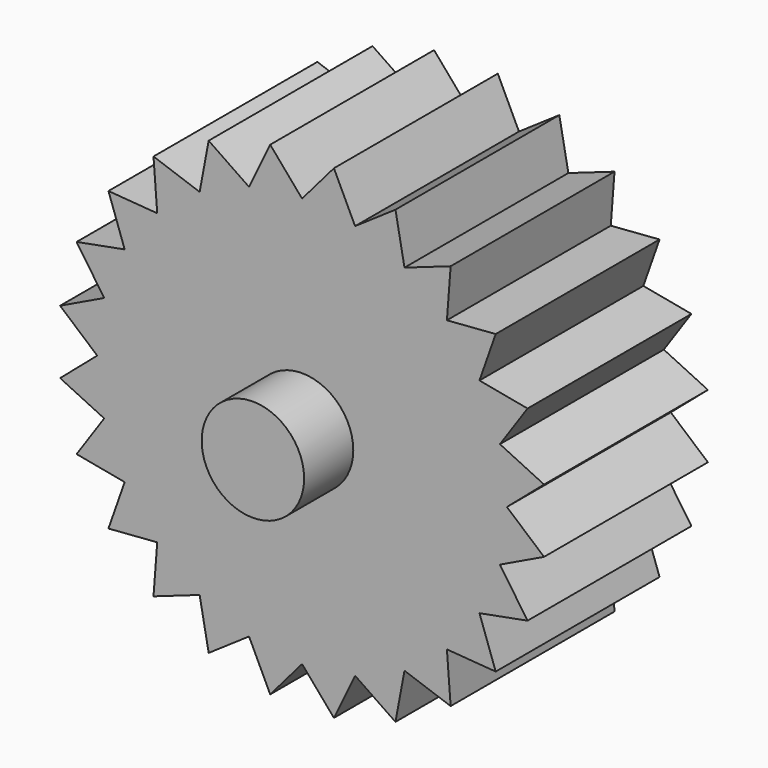
from build123d import *

# Parameters (mm, degrees)
F1_DEPTH = 25.4
F2_R     = 6.35
F3_DEPTH = 7.62
F4_R     = 6.35
F5_DEPTH = 7.62


with BuildPart() as f1:
    # F0 (on Front) → F1 (new body)
    with BuildSketch(Plane.XZ):
        with BuildLine():
            Line((24.9672579939, 3.2870018728), (25.4, 0))
            ThreePointArc((25.4, 0), (25.3456166503, 1.6612394824), (25.1826994789, 3.3153652824))
            Line((25.1826994789, 3.3153652824), (24.9672579939, 3.2870018728))
        make_face()
        with BuildLine():
            Line((30.0037978897, -3.9500749293), (25.4, 0))
            ThreePointArc((25.4, 0), (25.3456166503, -1.6612394824), (25.1826994789, -3.3153652824))
            Line((25.1826994789, -3.3153652824), (30.0037978897, -3.9500749293))
        make_face()
        Polygon((24.9672579939, -3.2870018728), (25.4, 0), (0, 0), (24.5345159877, -6.5740037456), align=None)
        with BuildLine():
            ThreePointArc((25.1826994789, -3.3153652824), (25.3456166503, -1.6612394824), (25.4, 0))
            Line((25.4, 0), (24.9672579939, -3.2870018728))
            Line((24.9672579939, -3.2870018728), (25.1826994789, -3.3153652824))
        make_face()
        Polygon((0, 0), (25.4, 0), (24.9672579939, 3.2870018728), (24.5345159877, 6.5740037456), align=None)
        with BuildLine():
            ThreePointArc((25.1826994789, 3.3153652824), (25.3456166503, 1.6612394824), (25.4, 0))
            Line((25.4, 0), (30.0037978897, 3.9500749293))
            Line((30.0037978897, 3.9500749293), (25.1826994789, 3.3153652824))
        make_face()
        with BuildLine():
            Line((24.9672579939, 3.2870018728), (25.1826994789, 3.3153652824))
            ThreePointArc((25.1826994789, 3.3153652824), (24.9119461222, 4.9552941792), (24.5345159877, 6.5740037456))
            Line((24.5345159877, 6.5740037456), (24.9672579939, 3.2870018728))
        make_face()
        with BuildLine():
            ThreePointArc((24.5345159877, 6.5740037456), (24.9119461222, 4.9552941792), (25.1826994789, 3.3153652824))
            Line((25.1826994789, 3.3153652824), (30.0037978897, 3.9500749293))
            Line((30.0037978897, 3.9500749293), (24.5345159877, 6.5740037456))
        make_face()
        with BuildLine():
            Line((30.0037978897, -3.9500749293), (25.1826994789, -3.3153652824))
            ThreePointArc((25.1826994789, -3.3153652824), (24.9119461222, -4.9552941792), (24.5345159877, -6.5740037456))
            Line((24.5345159877, -6.5740037456), (30.0037978897, -3.9500749293))
        make_face()
        with BuildLine():
            ThreePointArc((24.5345159877, -6.5740037456), (24.9119461222, -4.9552941792), (25.1826994789, -3.3153652824))
            Line((25.1826994789, -3.3153652824), (24.9672579939, -3.2870018728))
            Line((24.9672579939, -3.2870018728), (24.5345159877, -6.5740037456))
        make_face()
        Polygon((-6.5740037456, 24.5345159877), (0, 0), (0, 25.4), (-3.2870018728, 24.9672579939), align=None)
        Polygon((-24.5345159877, -6.5740037456), (0, 0), (-25.4, 0), (-24.9672579939, -3.2870018728), align=None)
        Polygon((6.5740037456, -24.5345159877), (0, 0), (0, -25.4), (3.2870018728, -24.9672579939), align=None)
        Polygon((21.9970452561, 12.7), (0, 0), (24.5345159877, 6.5740037456), (23.2657806219, 9.6370018728), align=None)
        Polygon((17.9605122421, 17.9605122421), (0, 0), (21.9970452561, 12.7), (19.9787787491, 15.3302561211), align=None)
        Polygon((12.7, 21.9970452561), (0, 0), (17.9605122421, 17.9605122421), (15.3302561211, 19.9787787491), align=None)
        Polygon((6.5740037456, 24.5345159877), (0, 0), (12.7, 21.9970452561), (9.6370018728, 23.2657806219), align=None)
        Polygon((0, 25.4), (0, 0), (6.5740037456, 24.5345159877), (3.2870018728, 24.9672579939), align=None)
        Polygon((0, -25.4), (0, 0), (-6.5740037456, -24.5345159877), (-3.2870018728, -24.9672579939), align=None)
        Polygon((24.5345159877, -6.5740037456), (0, 0), (21.9970452561, -12.7), (23.2657806219, -9.6370018728), align=None)
        Polygon((21.9970452561, -12.7), (0, 0), (17.9605122421, -17.9605122421), (19.9787787491, -15.3302561211), align=None)
        Polygon((17.9605122421, -17.9605122421), (0, 0), (12.7, -21.9970452561), (15.3302561211, -19.9787787491), align=None)
        Polygon((12.7, -21.9970452561), (0, 0), (6.5740037456, -24.5345159877), (9.6370018728, -23.2657806219), align=None)
        Polygon((-6.5740037456, -24.5345159877), (0, 0), (-12.7, -21.9970452561), (-9.6370018728, -23.2657806219), align=None)
        Polygon((-12.7, -21.9970452561), (0, 0), (-17.9605122421, -17.9605122421), (-15.3302561211, -19.9787787491), align=None)
        Polygon((-17.9605122421, -17.9605122421), (0, 0), (-21.9970452561, -12.7), (-19.9787787491, -15.3302561211), align=None)
        Polygon((-21.9970452561, -12.7), (0, 0), (-24.5345159877, -6.5740037456), (-23.2657806219, -9.6370018728), align=None)
        Polygon((-25.4, 0), (0, 0), (-24.5345159877, 6.5740037456), (-24.9672579939, 3.2870018728), align=None)
        Polygon((-24.5345159877, 6.5740037456), (0, 0), (-21.9970452561, 12.7), (-23.2657806219, 9.6370018728), align=None)
        Polygon((-21.9970452561, 12.7), (0, 0), (-17.9605122421, 17.9605122421), (-19.9787787491, 15.3302561211), align=None)
        Polygon((-17.9605122421, 17.9605122421), (0, 0), (-12.7, 21.9970452561), (-15.3302561211, 19.9787787491), align=None)
        Polygon((-12.7, 21.9970452561), (0, 0), (-6.5740037456, 24.5345159877), (-9.6370018728, 23.2657806219), align=None)
        with BuildLine():
            Line((23.2657806219, 9.6370018728), (24.5345159877, 6.5740037456))
            ThreePointArc((24.5345159877, 6.5740037456), (24.0520252892, 8.1645624187), (23.4665401258, 9.7201591821))
            Line((23.4665401258, 9.7201591821), (23.2657806219, 9.6370018728))
        make_face()
        with BuildLine():
            ThreePointArc((23.4665401258, 9.7201591821), (24.0520252892, 8.1645624187), (24.5345159877, 6.5740037456))
            Line((24.5345159877, 6.5740037456), (27.9590886471, 11.5810337092))
            Line((27.9590886471, 11.5810337092), (23.4665401258, 9.7201591821))
        make_face()
        with BuildLine():
            Line((27.9590886471, -11.5810337092), (24.5345159877, -6.5740037456))
            ThreePointArc((24.5345159877, -6.5740037456), (24.0520252892, -8.1645624187), (23.4665401258, -9.7201591821))
            Line((23.4665401258, -9.7201591821), (27.9590886471, -11.5810337092))
        make_face()
        with BuildLine():
            ThreePointArc((23.4665401258, -9.7201591821), (24.0520252892, -8.1645624187), (24.5345159877, -6.5740037456))
            Line((24.5345159877, -6.5740037456), (23.2657806219, -9.6370018728))
            Line((23.2657806219, -9.6370018728), (23.4665401258, -9.7201591821))
        make_face()
        with BuildLine():
            Line((3.9500749293, 30.0037978897), (0, 25.4))
            ThreePointArc((0, 25.4), (1.6612394824, 25.3456166503), (3.3153652824, 25.1826994789))
            Line((3.3153652824, 25.1826994789), (3.9500749293, 30.0037978897))
        make_face()
        with BuildLine():
            Line((-3.2870018728, 24.9672579939), (0, 25.4))
            ThreePointArc((0, 25.4), (-1.6612394824, 25.3456166503), (-3.3153652824, 25.1826994789))
            Line((-3.3153652824, 25.1826994789), (-3.2870018728, 24.9672579939))
        make_face()
        with BuildLine():
            ThreePointArc((3.3153652824, 25.1826994789), (1.6612394824, 25.3456166503), (0, 25.4))
            Line((0, 25.4), (3.2870018728, 24.9672579939))
            Line((3.2870018728, 24.9672579939), (3.3153652824, 25.1826994789))
        make_face()
        with BuildLine():
            ThreePointArc((-3.3153652824, 25.1826994789), (-1.6612394824, 25.3456166503), (0, 25.4))
            Line((0, 25.4), (-3.9500749293, 30.0037978897))
            Line((-3.9500749293, 30.0037978897), (-3.3153652824, 25.1826994789))
        make_face()
        with BuildLine():
            Line((-30.0037978897, 3.9500749293), (-25.4, 0))
            ThreePointArc((-25.4, 0), (-25.3456166503, 1.6612394824), (-25.1826994789, 3.3153652824))
            Line((-25.1826994789, 3.3153652824), (-30.0037978897, 3.9500749293))
        make_face()
        with BuildLine():
            Line((-24.9672579939, -3.2870018728), (-25.4, 0))
            ThreePointArc((-25.4, 0), (-25.3456166503, -1.6612394824), (-25.1826994789, -3.3153652824))
            Line((-25.1826994789, -3.3153652824), (-24.9672579939, -3.2870018728))
        make_face()
        with BuildLine():
            ThreePointArc((-25.1826994789, 3.3153652824), (-25.3456166503, 1.6612394824), (-25.4, 0))
            Line((-25.4, 0), (-24.9672579939, 3.2870018728))
            Line((-24.9672579939, 3.2870018728), (-25.1826994789, 3.3153652824))
        make_face()
        with BuildLine():
            ThreePointArc((-25.1826994789, -3.3153652824), (-25.3456166503, -1.6612394824), (-25.4, 0))
            Line((-25.4, 0), (-30.0037978897, -3.9500749293))
            Line((-30.0037978897, -3.9500749293), (-25.1826994789, -3.3153652824))
        make_face()
        with BuildLine():
            Line((-3.9500749293, -30.0037978896), (0, -25.4))
            ThreePointArc((0, -25.4), (-1.6612394824, -25.3456166503), (-3.3153652824, -25.1826994789))
            Line((-3.3153652824, -25.1826994789), (-3.9500749293, -30.0037978896))
        make_face()
        with BuildLine():
            Line((3.2870018728, -24.9672579939), (0, -25.4))
            ThreePointArc((0, -25.4), (1.6612394824, -25.3456166503), (3.3153652824, -25.1826994789))
            Line((3.3153652824, -25.1826994789), (3.2870018728, -24.9672579939))
        make_face()
        with BuildLine():
            ThreePointArc((-3.3153652824, -25.1826994789), (-1.6612394824, -25.3456166503), (0, -25.4))
            Line((0, -25.4), (-3.2870018728, -24.9672579939))
            Line((-3.2870018728, -24.9672579939), (-3.3153652824, -25.1826994789))
        make_face()
        with BuildLine():
            ThreePointArc((3.3153652824, -25.1826994789), (1.6612394824, -25.3456166503), (0, -25.4))
            Line((0, -25.4), (3.9500749293, -30.0037978897))
            Line((3.9500749293, -30.0037978897), (3.3153652824, -25.1826994789))
        make_face()
        with BuildLine():
            Line((27.9590886471, 11.5810337092), (21.9970452561, 12.7))
            ThreePointArc((21.9970452561, 12.7), (22.7805676349, 11.2341327316), (23.4665401258, 9.7201591821))
            Line((23.4665401258, 9.7201591821), (27.9590886471, 11.5810337092))
        make_face()
        with BuildLine():
            Line((19.9787787491, 15.3302561211), (21.9970452561, 12.7))
            ThreePointArc((21.9970452561, 12.7), (21.1193281525, 14.1114839187), (20.1511748434, 15.4625402968))
            Line((20.1511748434, 15.4625402968), (19.9787787491, 15.3302561211))
        make_face()
        with BuildLine():
            ThreePointArc((23.4665401258, 9.7201591821), (22.7805676349, 11.2341327316), (21.9970452561, 12.7))
            Line((21.9970452561, 12.7), (23.2657806219, 9.6370018728))
            Line((23.2657806219, 9.6370018728), (23.4665401258, 9.7201591821))
        make_face()
        with BuildLine():
            ThreePointArc((20.1511748434, 15.4625402968), (21.1193281525, 14.1114839187), (21.9970452561, 12.7))
            Line((21.9970452561, 12.7), (24.0090137178, 18.4227641804))
            Line((24.0090137178, 18.4227641804), (20.1511748434, 15.4625402968))
        make_face()
        with BuildLine():
            Line((24.0090137178, 18.4227641804), (17.9605122421, 17.9605122421))
            ThreePointArc((17.9605122421, 17.9605122421), (19.09673111, 16.7473837035), (20.1511748434, 15.4625402968))
            Line((20.1511748434, 15.4625402968), (24.0090137178, 18.4227641804))
        make_face()
        with BuildLine():
            Line((15.3302561211, 19.9787787491), (17.9605122421, 17.9605122421))
            ThreePointArc((17.9605122421, 17.9605122421), (16.7473837035, 19.09673111), (15.4625402968, 20.1511748434))
            Line((15.4625402968, 20.1511748434), (15.3302561211, 19.9787787491))
        make_face()
        with BuildLine():
            ThreePointArc((20.1511748434, 15.4625402968), (19.09673111, 16.7473837035), (17.9605122421, 17.9605122421))
            Line((17.9605122421, 17.9605122421), (19.9787787491, 15.3302561211))
            Line((19.9787787491, 15.3302561211), (20.1511748434, 15.4625402968))
        make_face()
        with BuildLine():
            ThreePointArc((15.4625402968, 20.1511748434), (16.7473837035, 19.09673111), (17.9605122421, 17.9605122421))
            Line((17.9605122421, 17.9605122421), (18.4227641804, 24.0090137178))
            Line((18.4227641804, 24.0090137178), (15.4625402968, 20.1511748434))
        make_face()
        with BuildLine():
            Line((18.4227641804, 24.0090137178), (12.7, 21.9970452561))
            ThreePointArc((12.7, 21.9970452561), (14.1114839187, 21.1193281525), (15.4625402968, 20.1511748434))
            Line((15.4625402968, 20.1511748434), (18.4227641804, 24.0090137178))
        make_face()
        with BuildLine():
            Line((9.6370018728, 23.2657806219), (12.7, 21.9970452561))
            ThreePointArc((12.7, 21.9970452561), (11.2341327316, 22.7805676349), (9.7201591821, 23.4665401258))
            Line((9.7201591821, 23.4665401258), (9.6370018728, 23.2657806219))
        make_face()
        with BuildLine():
            ThreePointArc((15.4625402968, 20.1511748434), (14.1114839187, 21.1193281525), (12.7, 21.9970452561))
            Line((12.7, 21.9970452561), (15.3302561211, 19.9787787491))
            Line((15.3302561211, 19.9787787491), (15.4625402968, 20.1511748434))
        make_face()
        with BuildLine():
            ThreePointArc((9.7201591821, 23.4665401258), (11.2341327316, 22.7805676349), (12.7, 21.9970452561))
            Line((12.7, 21.9970452561), (11.5810337092, 27.9590886471))
            Line((11.5810337092, 27.9590886471), (9.7201591821, 23.4665401258))
        make_face()
        with BuildLine():
            Line((11.5810337092, 27.9590886471), (6.5740037456, 24.5345159877))
            ThreePointArc((6.5740037456, 24.5345159877), (8.1645624187, 24.0520252892), (9.7201591821, 23.4665401258))
            Line((9.7201591821, 23.4665401258), (11.5810337092, 27.9590886471))
        make_face()
        with BuildLine():
            Line((3.2870018728, 24.9672579939), (6.5740037456, 24.5345159877))
            ThreePointArc((6.5740037456, 24.5345159877), (4.9552941792, 24.9119461222), (3.3153652824, 25.1826994789))
            Line((3.3153652824, 25.1826994789), (3.2870018728, 24.9672579939))
        make_face()
        with BuildLine():
            ThreePointArc((9.7201591821, 23.4665401258), (8.1645624187, 24.0520252892), (6.5740037456, 24.5345159877))
            Line((6.5740037456, 24.5345159877), (9.6370018728, 23.2657806219))
            Line((9.6370018728, 23.2657806219), (9.7201591821, 23.4665401258))
        make_face()
        with BuildLine():
            ThreePointArc((3.3153652824, 25.1826994789), (4.9552941792, 24.9119461222), (6.5740037456, 24.5345159877))
            Line((6.5740037456, 24.5345159877), (3.9500749293, 30.0037978897))
            Line((3.9500749293, 30.0037978897), (3.3153652824, 25.1826994789))
        make_face()
        with BuildLine():
            Line((-11.5810337092, -27.9590886471), (-6.5740037456, -24.5345159877))
            ThreePointArc((-6.5740037456, -24.5345159877), (-8.1645624187, -24.0520252892), (-9.7201591821, -23.4665401258))
            Line((-9.7201591821, -23.4665401258), (-11.5810337092, -27.9590886471))
        make_face()
        with BuildLine():
            Line((-3.2870018728, -24.9672579939), (-6.5740037456, -24.5345159877))
            ThreePointArc((-6.5740037456, -24.5345159877), (-4.9552941792, -24.9119461222), (-3.3153652824, -25.1826994789))
            Line((-3.3153652824, -25.1826994789), (-3.2870018728, -24.9672579939))
        make_face()
        with BuildLine():
            ThreePointArc((-9.7201591821, -23.4665401258), (-8.1645624187, -24.0520252892), (-6.5740037456, -24.5345159877))
            Line((-6.5740037456, -24.5345159877), (-9.6370018728, -23.2657806219))
            Line((-9.6370018728, -23.2657806219), (-9.7201591821, -23.4665401258))
        make_face()
        with BuildLine():
            ThreePointArc((-3.3153652824, -25.1826994789), (-4.9552941792, -24.9119461222), (-6.5740037456, -24.5345159877))
            Line((-6.5740037456, -24.5345159877), (-3.9500749293, -30.0037978897))
            Line((-3.9500749293, -30.0037978896), (-3.3153652824, -25.1826994789))
        make_face()
        with BuildLine():
            Line((24.0090137178, -18.4227641804), (21.9970452561, -12.7))
            ThreePointArc((21.9970452561, -12.7), (21.1193281525, -14.1114839187), (20.1511748434, -15.4625402968))
            Line((20.1511748434, -15.4625402968), (24.0090137178, -18.4227641804))
        make_face()
        with BuildLine():
            Line((23.2657806219, -9.6370018728), (21.9970452561, -12.7))
            ThreePointArc((21.9970452561, -12.7), (22.7805676349, -11.2341327316), (23.4665401258, -9.7201591821))
            Line((23.4665401258, -9.7201591821), (23.2657806219, -9.6370018728))
        make_face()
        with BuildLine():
            ThreePointArc((20.1511748434, -15.4625402968), (21.1193281525, -14.1114839187), (21.9970452561, -12.7))
            Line((21.9970452561, -12.7), (19.9787787491, -15.3302561211))
            Line((19.9787787491, -15.3302561211), (20.1511748434, -15.4625402968))
        make_face()
        with BuildLine():
            ThreePointArc((23.4665401258, -9.7201591821), (22.7805676349, -11.2341327316), (21.9970452561, -12.7))
            Line((21.9970452561, -12.7), (27.9590886471, -11.5810337092))
            Line((27.9590886471, -11.5810337092), (23.4665401258, -9.7201591821))
        make_face()
        with BuildLine():
            Line((18.4227641804, -24.0090137178), (17.9605122421, -17.9605122421))
            ThreePointArc((17.9605122421, -17.9605122421), (16.7473837035, -19.09673111), (15.4625402968, -20.1511748434))
            Line((15.4625402968, -20.1511748434), (18.4227641804, -24.0090137178))
        make_face()
        with BuildLine():
            Line((19.9787787491, -15.3302561211), (17.9605122421, -17.9605122421))
            ThreePointArc((17.9605122421, -17.9605122421), (19.09673111, -16.7473837035), (20.1511748434, -15.4625402968))
            Line((20.1511748434, -15.4625402968), (19.9787787491, -15.3302561211))
        make_face()
        with BuildLine():
            ThreePointArc((15.4625402968, -20.1511748434), (16.7473837035, -19.09673111), (17.9605122421, -17.9605122421))
            Line((17.9605122421, -17.9605122421), (15.3302561211, -19.9787787491))
            Line((15.3302561211, -19.9787787491), (15.4625402968, -20.1511748434))
        make_face()
        with BuildLine():
            ThreePointArc((20.1511748434, -15.4625402968), (19.09673111, -16.7473837035), (17.9605122421, -17.9605122421))
            Line((17.9605122421, -17.9605122421), (24.0090137178, -18.4227641804))
            Line((24.0090137178, -18.4227641804), (20.1511748434, -15.4625402968))
        make_face()
        with BuildLine():
            Line((11.5810337092, -27.9590886471), (12.7, -21.9970452561))
            ThreePointArc((12.7, -21.9970452561), (11.2341327316, -22.7805676349), (9.7201591821, -23.4665401258))
            Line((9.7201591821, -23.4665401258), (11.5810337092, -27.9590886471))
        make_face()
        with BuildLine():
            Line((15.3302561211, -19.9787787491), (12.7, -21.9970452561))
            ThreePointArc((12.7, -21.9970452561), (14.1114839187, -21.1193281525), (15.4625402968, -20.1511748434))
            Line((15.4625402968, -20.1511748434), (15.3302561211, -19.9787787491))
        make_face()
        with BuildLine():
            ThreePointArc((9.7201591821, -23.4665401258), (11.2341327316, -22.7805676349), (12.7, -21.9970452561))
            Line((12.7, -21.9970452561), (9.6370018728, -23.2657806219))
            Line((9.6370018728, -23.2657806219), (9.7201591821, -23.4665401258))
        make_face()
        with BuildLine():
            ThreePointArc((15.4625402968, -20.1511748434), (14.1114839187, -21.1193281525), (12.7, -21.9970452561))
            Line((12.7, -21.9970452561), (18.4227641804, -24.0090137178))
            Line((18.4227641804, -24.0090137178), (15.4625402968, -20.1511748434))
        make_face()
        with BuildLine():
            Line((3.9500749293, -30.0037978897), (6.5740037456, -24.5345159877))
            ThreePointArc((6.5740037456, -24.5345159877), (4.9552941792, -24.9119461222), (3.3153652824, -25.1826994789))
            Line((3.3153652824, -25.1826994789), (3.9500749293, -30.0037978897))
        make_face()
        with BuildLine():
            Line((9.6370018728, -23.2657806219), (6.5740037456, -24.5345159877))
            ThreePointArc((6.5740037456, -24.5345159877), (8.1645624187, -24.0520252892), (9.7201591821, -23.4665401258))
            Line((9.7201591821, -23.4665401258), (9.6370018728, -23.2657806219))
        make_face()
        with BuildLine():
            ThreePointArc((3.3153652824, -25.1826994789), (4.9552941792, -24.9119461222), (6.5740037456, -24.5345159877))
            Line((6.5740037456, -24.5345159877), (3.2870018728, -24.9672579939))
            Line((3.2870018728, -24.9672579939), (3.3153652824, -25.1826994789))
        make_face()
        with BuildLine():
            ThreePointArc((9.7201591821, -23.4665401258), (8.1645624187, -24.0520252892), (6.5740037456, -24.5345159877))
            Line((6.5740037456, -24.5345159877), (11.5810337092, -27.9590886471))
            Line((11.5810337092, -27.9590886471), (9.7201591821, -23.4665401258))
        make_face()
        with BuildLine():
            Line((-18.4227641804, -24.0090137178), (-12.7, -21.9970452561))
            ThreePointArc((-12.7, -21.9970452561), (-14.1114839187, -21.1193281525), (-15.4625402968, -20.1511748434))
            Line((-15.4625402968, -20.1511748434), (-18.4227641804, -24.0090137178))
        make_face()
        with BuildLine():
            Line((-9.6370018728, -23.2657806219), (-12.7, -21.9970452561))
            ThreePointArc((-12.7, -21.9970452561), (-11.2341327316, -22.7805676349), (-9.7201591821, -23.4665401258))
            Line((-9.7201591821, -23.4665401258), (-9.6370018728, -23.2657806219))
        make_face()
        with BuildLine():
            ThreePointArc((-15.4625402968, -20.1511748434), (-14.1114839187, -21.1193281525), (-12.7, -21.9970452561))
            Line((-12.7, -21.9970452561), (-15.3302561211, -19.9787787491))
            Line((-15.3302561211, -19.9787787491), (-15.4625402968, -20.1511748434))
        make_face()
        with BuildLine():
            ThreePointArc((-9.7201591821, -23.4665401258), (-11.2341327316, -22.7805676349), (-12.7, -21.9970452561))
            Line((-12.7, -21.9970452561), (-11.5810337092, -27.9590886471))
            Line((-11.5810337092, -27.9590886471), (-9.7201591821, -23.4665401258))
        make_face()
        with BuildLine():
            Line((-24.0090137178, -18.4227641804), (-17.9605122421, -17.9605122421))
            ThreePointArc((-17.9605122421, -17.9605122421), (-19.09673111, -16.7473837035), (-20.1511748434, -15.4625402968))
            Line((-20.1511748434, -15.4625402968), (-24.0090137178, -18.4227641804))
        make_face()
        with BuildLine():
            Line((-15.3302561211, -19.9787787491), (-17.9605122421, -17.9605122421))
            ThreePointArc((-17.9605122421, -17.9605122421), (-16.7473837035, -19.09673111), (-15.4625402968, -20.1511748434))
            Line((-15.4625402968, -20.1511748434), (-15.3302561211, -19.9787787491))
        make_face()
        with BuildLine():
            ThreePointArc((-20.1511748434, -15.4625402968), (-19.09673111, -16.7473837035), (-17.9605122421, -17.9605122421))
            Line((-17.9605122421, -17.9605122421), (-19.9787787491, -15.3302561211))
            Line((-19.9787787491, -15.3302561211), (-20.1511748434, -15.4625402968))
        make_face()
        with BuildLine():
            ThreePointArc((-15.4625402968, -20.1511748434), (-16.7473837035, -19.09673111), (-17.9605122421, -17.9605122421))
            Line((-17.9605122421, -17.9605122421), (-18.4227641804, -24.0090137178))
            Line((-18.4227641804, -24.0090137178), (-15.4625402968, -20.1511748434))
        make_face()
        with BuildLine():
            Line((-27.9590886471, -11.5810337092), (-21.9970452561, -12.7))
            ThreePointArc((-21.9970452561, -12.7), (-22.7805676349, -11.2341327316), (-23.4665401258, -9.7201591821))
            Line((-23.4665401258, -9.7201591821), (-27.9590886471, -11.5810337092))
        make_face()
        with BuildLine():
            Line((-19.9787787491, -15.3302561211), (-21.9970452561, -12.7))
            ThreePointArc((-21.9970452561, -12.7), (-21.1193281525, -14.1114839187), (-20.1511748434, -15.4625402968))
            Line((-20.1511748434, -15.4625402968), (-19.9787787491, -15.3302561211))
        make_face()
        with BuildLine():
            ThreePointArc((-23.4665401258, -9.7201591821), (-22.7805676349, -11.2341327316), (-21.9970452561, -12.7))
            Line((-21.9970452561, -12.7), (-23.2657806219, -9.6370018728))
            Line((-23.2657806219, -9.6370018728), (-23.4665401258, -9.7201591821))
        make_face()
        with BuildLine():
            ThreePointArc((-20.1511748434, -15.4625402968), (-21.1193281525, -14.1114839187), (-21.9970452561, -12.7))
            Line((-21.9970452561, -12.7), (-24.0090137178, -18.4227641804))
            Line((-24.0090137178, -18.4227641804), (-20.1511748434, -15.4625402968))
        make_face()
        with BuildLine():
            Line((-30.0037978897, -3.9500749293), (-24.5345159877, -6.5740037456))
            ThreePointArc((-24.5345159877, -6.5740037456), (-24.9119461222, -4.9552941792), (-25.1826994789, -3.3153652824))
            Line((-25.1826994789, -3.3153652824), (-30.0037978897, -3.9500749293))
        make_face()
        with BuildLine():
            Line((-23.2657806219, -9.6370018728), (-24.5345159877, -6.5740037456))
            ThreePointArc((-24.5345159877, -6.5740037456), (-24.0520252892, -8.1645624187), (-23.4665401258, -9.7201591821))
            Line((-23.4665401258, -9.7201591821), (-23.2657806219, -9.6370018728))
        make_face()
        with BuildLine():
            ThreePointArc((-25.1826994789, -3.3153652824), (-24.9119461222, -4.9552941792), (-24.5345159877, -6.5740037456))
            Line((-24.5345159877, -6.5740037456), (-24.9672579939, -3.2870018728))
            Line((-24.9672579939, -3.2870018728), (-25.1826994789, -3.3153652824))
        make_face()
        with BuildLine():
            ThreePointArc((-23.4665401258, -9.7201591821), (-24.0520252892, -8.1645624187), (-24.5345159877, -6.5740037456))
            Line((-24.5345159877, -6.5740037456), (-27.9590886471, -11.5810337092))
            Line((-27.9590886471, -11.5810337092), (-23.4665401258, -9.7201591821))
        make_face()
        with BuildLine():
            Line((-27.9590886471, 11.5810337092), (-24.5345159877, 6.5740037456))
            ThreePointArc((-24.5345159877, 6.5740037456), (-24.0520252892, 8.1645624187), (-23.4665401258, 9.7201591821))
            Line((-23.4665401258, 9.7201591821), (-27.9590886471, 11.5810337092))
        make_face()
        with BuildLine():
            Line((-24.9672579939, 3.2870018728), (-24.5345159877, 6.5740037456))
            ThreePointArc((-24.5345159877, 6.5740037456), (-24.9119461222, 4.9552941792), (-25.1826994789, 3.3153652824))
            Line((-25.1826994789, 3.3153652824), (-24.9672579939, 3.2870018728))
        make_face()
        with BuildLine():
            ThreePointArc((-23.4665401258, 9.7201591821), (-24.0520252892, 8.1645624187), (-24.5345159877, 6.5740037456))
            Line((-24.5345159877, 6.5740037456), (-23.2657806219, 9.6370018728))
            Line((-23.2657806219, 9.6370018728), (-23.4665401258, 9.7201591821))
        make_face()
        with BuildLine():
            ThreePointArc((-25.1826994789, 3.3153652824), (-24.9119461222, 4.9552941792), (-24.5345159877, 6.5740037456))
            Line((-24.5345159877, 6.5740037456), (-30.0037978897, 3.9500749293))
            Line((-30.0037978897, 3.9500749293), (-25.1826994789, 3.3153652824))
        make_face()
        with BuildLine():
            Line((-24.0090137178, 18.4227641804), (-21.9970452561, 12.7))
            ThreePointArc((-21.9970452561, 12.7), (-21.1193281525, 14.1114839187), (-20.1511748434, 15.4625402968))
            Line((-20.1511748434, 15.4625402968), (-24.0090137178, 18.4227641804))
        make_face()
        with BuildLine():
            Line((-23.2657806219, 9.6370018728), (-21.9970452561, 12.7))
            ThreePointArc((-21.9970452561, 12.7), (-22.7805676349, 11.2341327316), (-23.4665401258, 9.7201591821))
            Line((-23.4665401258, 9.7201591821), (-23.2657806219, 9.6370018728))
        make_face()
        with BuildLine():
            ThreePointArc((-20.1511748434, 15.4625402968), (-21.1193281525, 14.1114839187), (-21.9970452561, 12.7))
            Line((-21.9970452561, 12.7), (-19.9787787491, 15.3302561211))
            Line((-19.9787787491, 15.3302561211), (-20.1511748434, 15.4625402968))
        make_face()
        with BuildLine():
            ThreePointArc((-23.4665401258, 9.7201591821), (-22.7805676349, 11.2341327316), (-21.9970452561, 12.7))
            Line((-21.9970452561, 12.7), (-27.9590886471, 11.5810337092))
            Line((-27.9590886471, 11.5810337092), (-23.4665401258, 9.7201591821))
        make_face()
        with BuildLine():
            Line((-18.4227641804, 24.0090137178), (-17.9605122421, 17.9605122421))
            ThreePointArc((-17.9605122421, 17.9605122421), (-16.7473837035, 19.09673111), (-15.4625402968, 20.1511748434))
            Line((-15.4625402968, 20.1511748434), (-18.4227641804, 24.0090137178))
        make_face()
        with BuildLine():
            Line((-19.9787787491, 15.3302561211), (-17.9605122421, 17.9605122421))
            ThreePointArc((-17.9605122421, 17.9605122421), (-19.09673111, 16.7473837035), (-20.1511748434, 15.4625402968))
            Line((-20.1511748434, 15.4625402968), (-19.9787787491, 15.3302561211))
        make_face()
        with BuildLine():
            ThreePointArc((-15.4625402968, 20.1511748434), (-16.7473837035, 19.09673111), (-17.9605122421, 17.9605122421))
            Line((-17.9605122421, 17.9605122421), (-15.3302561211, 19.9787787491))
            Line((-15.3302561211, 19.9787787491), (-15.4625402968, 20.1511748434))
        make_face()
        with BuildLine():
            ThreePointArc((-20.1511748434, 15.4625402968), (-19.09673111, 16.7473837035), (-17.9605122421, 17.9605122421))
            Line((-17.9605122421, 17.9605122421), (-24.0090137178, 18.4227641804))
            Line((-24.0090137178, 18.4227641804), (-20.1511748434, 15.4625402968))
        make_face()
        with BuildLine():
            Line((-11.5810337092, 27.9590886471), (-12.7, 21.9970452561))
            ThreePointArc((-12.7, 21.9970452561), (-11.2341327316, 22.7805676349), (-9.7201591821, 23.4665401258))
            Line((-9.7201591821, 23.4665401258), (-11.5810337092, 27.9590886471))
        make_face()
        with BuildLine():
            Line((-15.3302561211, 19.9787787491), (-12.7, 21.9970452561))
            ThreePointArc((-12.7, 21.9970452561), (-14.1114839187, 21.1193281525), (-15.4625402968, 20.1511748434))
            Line((-15.4625402968, 20.1511748434), (-15.3302561211, 19.9787787491))
        make_face()
        with BuildLine():
            ThreePointArc((-9.7201591821, 23.4665401258), (-11.2341327316, 22.7805676349), (-12.7, 21.9970452561))
            Line((-12.7, 21.9970452561), (-9.6370018728, 23.2657806219))
            Line((-9.6370018728, 23.2657806219), (-9.7201591821, 23.4665401258))
        make_face()
        with BuildLine():
            ThreePointArc((-15.4625402968, 20.1511748434), (-14.1114839187, 21.1193281525), (-12.7, 21.9970452561))
            Line((-12.7, 21.9970452561), (-18.4227641804, 24.0090137178))
            Line((-18.4227641804, 24.0090137178), (-15.4625402968, 20.1511748434))
        make_face()
        with BuildLine():
            Line((-3.9500749293, 30.0037978897), (-6.5740037456, 24.5345159877))
            ThreePointArc((-6.5740037456, 24.5345159877), (-4.9552941792, 24.9119461222), (-3.3153652824, 25.1826994789))
            Line((-3.3153652824, 25.1826994789), (-3.9500749293, 30.0037978897))
        make_face()
        with BuildLine():
            Line((-9.6370018728, 23.2657806219), (-6.5740037456, 24.5345159877))
            ThreePointArc((-6.5740037456, 24.5345159877), (-8.1645624187, 24.0520252892), (-9.7201591821, 23.4665401258))
            Line((-9.7201591821, 23.4665401258), (-9.6370018728, 23.2657806219))
        make_face()
        with BuildLine():
            ThreePointArc((-3.3153652824, 25.1826994789), (-4.9552941792, 24.9119461222), (-6.5740037456, 24.5345159877))
            Line((-6.5740037456, 24.5345159877), (-3.2870018728, 24.9672579939))
            Line((-3.2870018728, 24.9672579939), (-3.3153652824, 25.1826994789))
        make_face()
        with BuildLine():
            ThreePointArc((-9.7201591821, 23.4665401258), (-8.1645624187, 24.0520252892), (-6.5740037456, 24.5345159877))
            Line((-6.5740037456, 24.5345159877), (-11.5810337092, 27.9590886471))
            Line((-11.5810337092, 27.9590886471), (-9.7201591821, 23.4665401258))
        make_face()
    extrude(amount=F1_DEPTH)

    # F2 (on face) → F3 (join)
    with BuildSketch(Plane.XZ.offset(25.4)):
        Circle(F2_R)
    extrude(amount=F3_DEPTH)

    # F4 (on face) → F5 (join)
    with BuildSketch(Plane(origin=(0, 0, 0), x_dir=(-1, 0, 0), z_dir=(0, 1, 0))):
        Circle(F4_R)
    extrude(amount=F5_DEPTH)


solid = f1.part
